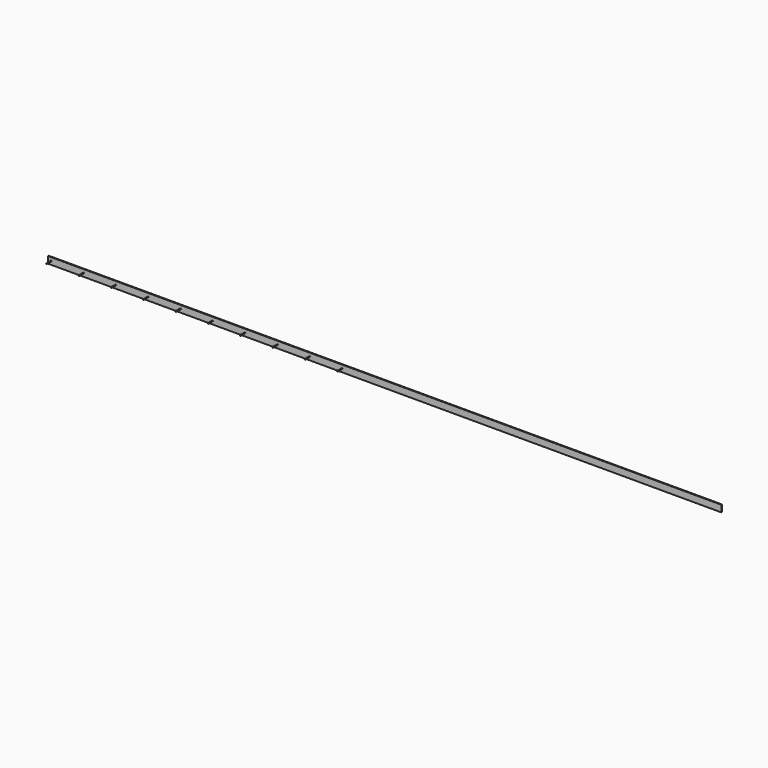
from build123d import *

# Parameters (mm, degrees)
F0_W     = 2500
F0_H     = 25
F0_R     = 1.5
F1_DEPTH = 3
F2_DEPTH = 25


with BuildPart() as f1:
    # F0 (on Front) → F1 (new body)
    with BuildSketch(Plane.XZ):
        with Locations((205.786598, 12.211518)):
            Rectangle(F0_W, F0_H)
        with Locations((-1031.713402, 12.211518)):
            Circle(F0_R, mode=Mode.SUBTRACT)
        with Locations((-911.713402, 12.211518)):
            Circle(F0_R, mode=Mode.SUBTRACT)
        with Locations((-791.713402, 12.211518)):
            Circle(F0_R, mode=Mode.SUBTRACT)
        with Locations((-671.713402, 12.211518)):
            Circle(F0_R, mode=Mode.SUBTRACT)
        with Locations((-551.713402, 12.211518)):
            Circle(F0_R, mode=Mode.SUBTRACT)
        with Locations((-431.713402, 12.211518)):
            Circle(F0_R, mode=Mode.SUBTRACT)
        with Locations((-311.713402, 12.211518)):
            Circle(F0_R, mode=Mode.SUBTRACT)
        with Locations((-191.713402, 12.211518)):
            Circle(F0_R, mode=Mode.SUBTRACT)
        with Locations((-71.713402, 12.211518)):
            Circle(F0_R, mode=Mode.SUBTRACT)
        with Locations((48.286598, 12.211518)):
            Circle(F0_R, mode=Mode.SUBTRACT)
    extrude(amount=F1_DEPTH)

    # F0 (on Front) → F2 (join)
    with BuildSketch(Plane.XZ):
        with Locations((-1031.713402, 12.211518)):
            Circle(F0_R)
        with Locations((-911.713402, 12.211518)):
            Circle(F0_R)
        with Locations((-791.713402, 12.211518)):
            Circle(F0_R)
        with Locations((-671.713402, 12.211518)):
            Circle(F0_R)
        with Locations((-551.713402, 12.211518)):
            Circle(F0_R)
        with Locations((-431.713402, 12.211518)):
            Circle(F0_R)
        with Locations((-311.713402, 12.211518)):
            Circle(F0_R)
        with Locations((-191.713402, 12.211518)):
            Circle(F0_R)
        with Locations((-71.713402, 12.211518)):
            Circle(F0_R)
        with Locations((48.286598, 12.211518)):
            Circle(F0_R)
    extrude(amount=F2_DEPTH)


solid = f1.part
